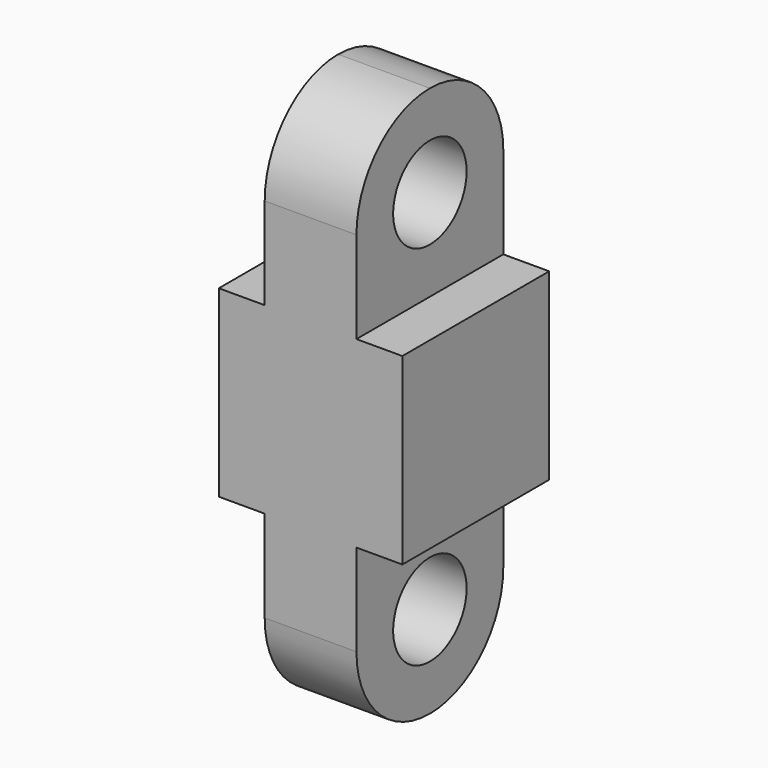
from build123d import *

# Parameters (mm, degrees)
F0_R     = 10
F1_DEPTH = 10
F2_W     = 40
F2_H     = 20
F3_DEPTH = 10


with BuildPart() as f1:
    # F0 (on Right) → F1 (new body)
    with BuildSketch(Plane.YZ):
        with BuildLine():
            Line((-20, 40), (-20, 0))
            Line((-20, 0), (20, 0))
            Line((20, 0), (20, 40))
            ThreePointArc((20, 40), (14.142136, 54.142136), (0, 60))
            ThreePointArc((0, 60), (-14.142136, 54.142136), (-20, 40))
        make_face()
        with Locations((0, 40)):
            Circle(F0_R, mode=Mode.SUBTRACT)
    extrude(amount=F1_DEPTH)

    # F2 (on face) → F3 (join)
    with BuildSketch(Plane.YZ.offset(10)):
        with Locations((0, 10)):
            Rectangle(F2_W, F2_H)
    extrude(amount=F3_DEPTH)

    # F4: F1 across plane


with BuildPart() as f1_1:
    add(f1.part)
    add(f1.part.mirror(Plane.YZ))

    # F5: F1 across plane


with BuildPart() as f1_2:
    add(f1_1.part)
    add(f1_1.part.mirror(Plane.XY))


solid = f1_2.part
